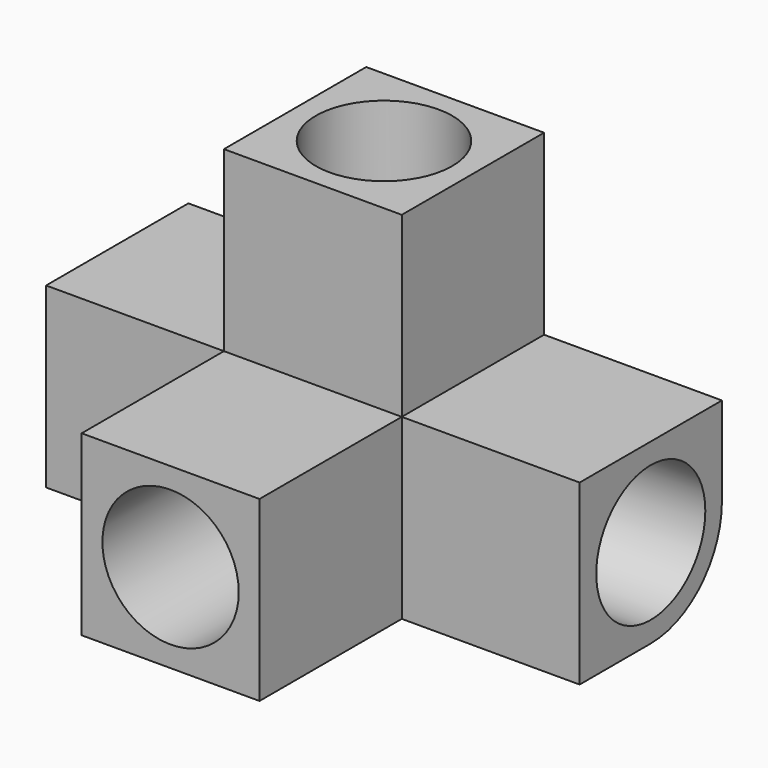
from build123d import *

# Parameters (mm, degrees)
F0_W      = 30
F0_H      = 30
F1_DEPTH  = 30
F2_DEPTH  = 60
F3_R      = 11.5
F7_DEPTH  = 30
F5_R      = 11.5
F8_DEPTH  = 30
F4_R      = 11.5
F9_DEPTH  = 30
F6_R      = 11.5
F10_DEPTH = 30
F11_R     = 15
F11_2_R   = 15


with BuildPart() as f1:
    # F0 (on Top) → F1 (new body)
    with BuildSketch(Plane.XY):
        with Locations((-30, 0)):
            Rectangle(F0_W, F0_H)
        Polygon((15, -45), (15, -15), (-15, -15), (-15, -45), (0, -45), align=None)
        with Locations((30, 0)):
            Rectangle(F0_W, F0_H)
    extrude(amount=F1_DEPTH)

    # F5 (on face) → F8 (cut)
    with BuildSketch(Plane(origin=(-45, 0, 0), x_dir=(0, -1, 0), z_dir=(-1, 0, 0))):
        with Locations((0, 15)):
            Circle(F5_R)
    extrude(amount=-F8_DEPTH, mode=Mode.SUBTRACT)

    # F4 (on face) → F9 (cut)
    with BuildSketch(Plane.XZ.offset(45)):
        with Locations((0, 15)):
            Circle(F4_R)
    extrude(amount=-F9_DEPTH, mode=Mode.SUBTRACT)

    # F6 (on face) → F10 (cut)
    with BuildSketch(Plane.YZ.offset(45)):
        with Locations((0, 15)):
            Circle(F6_R)
    extrude(amount=-F10_DEPTH, mode=Mode.SUBTRACT)

    # F11
    f11_edges = [f1.edges().sort_by_distance(p)[0] for p in [
        (-30, 15, 0),
        (30, 15, 0),
    ]]
    fillet(f11_edges, radius=F11_R)


with BuildPart() as f2:
    # F0 (on Top) → F2 (new body)
    with BuildSketch(Plane.XY):
        Rectangle(F0_W, F0_H)
    extrude(amount=F2_DEPTH)

    # F3 (on face) → F7 (cut)
    with BuildSketch(Plane.XY.offset(60)):
        Circle(F3_R)
    extrude(amount=-F7_DEPTH, mode=Mode.SUBTRACT)

    # F11#2
    f11_2_edges = [f2.edges().sort_by_distance(p)[0] for p in [
        (0, 15, 0),
    ]]
    fillet(f11_2_edges, radius=F11_2_R)


solid = Compound([f1.part, f2.part])
